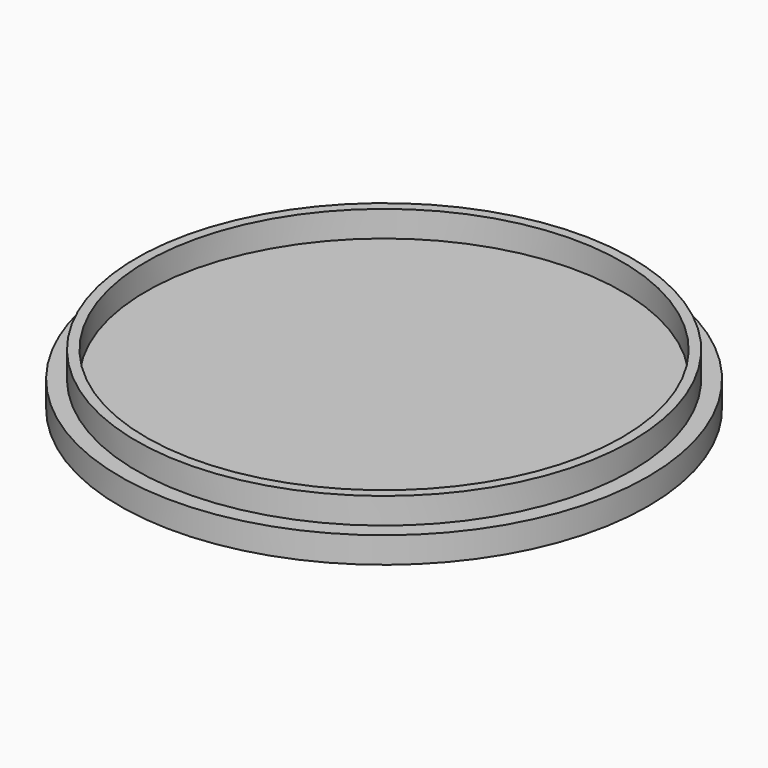
from build123d import *

# Parameters (mm, degrees)
F0_R     = 76
F0_R_2   = 73
F1_DEPTH = 8
F0_R_3   = 81
F0_R_4   = 79
F0_R_5   = 27.906169
F2_DEPTH = 8


with BuildPart() as f1:
    # F0 (on Top) → F1 (new body)
    with BuildSketch(Plane.XY):
        Circle(F0_R)
        Circle(F0_R_2, mode=Mode.SUBTRACT)
    extrude(amount=F1_DEPTH)

    # F0 (on Top) → F2 (join)
    with BuildSketch(Plane.XY):
        Circle(F0_R_3)
        Circle(F0_R_4, mode=Mode.SUBTRACT)
        Circle(F0_R_4)
        Circle(F0_R, mode=Mode.SUBTRACT)
        Circle(F0_R)
        Circle(F0_R_2, mode=Mode.SUBTRACT)
        Circle(F0_R_2)
        Circle(F0_R_5, mode=Mode.SUBTRACT)
        Circle(F0_R_5)
    extrude(amount=-F2_DEPTH)


solid = f1.part
